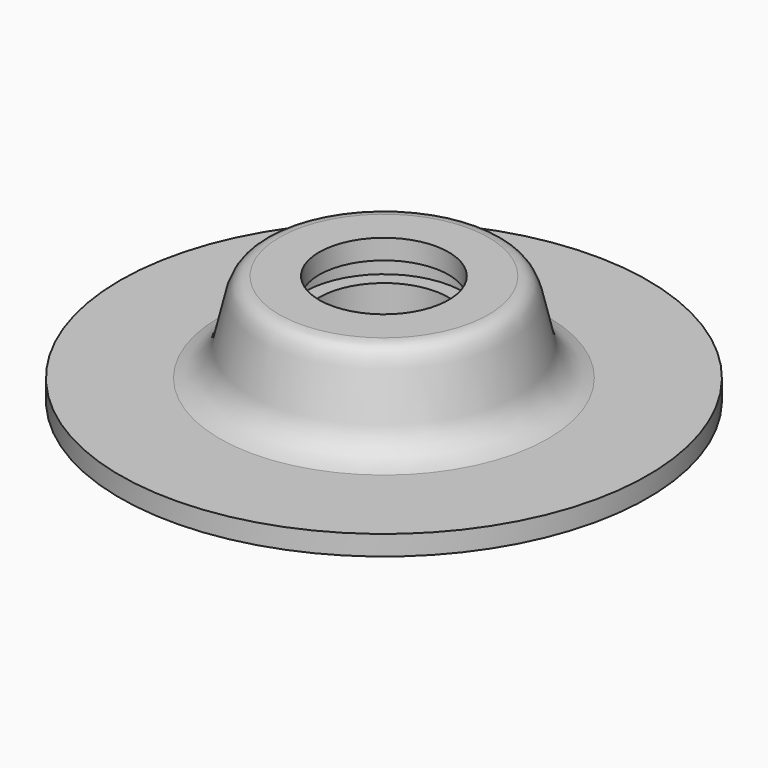
from build123d import *

# Parameters (mm, degrees)
F0_W   = 10
F0_H   = 2
F0_W_2 = 2.5


with BuildPart() as f1:
    # F0 (on Front) → F1 (revolve)
    with BuildSketch(Plane.XZ):
        Polygon((-16.5, 0), (-6.5, 0), (-6.5, 2), (-10.5, 2), (-16.5, 2), align=None)
        with Locations((-21.5, 1)):
            Rectangle(F0_W, F0_H)
        Polygon((-10.5, 2), (-6.5, 2), (-6.5, 7), (-8, 7), (-10.5, 7), align=None)
        with BuildLine():
            add(Edge.make_bspline(
                [(-16.5, 2), (-11.400399, 3.076565), (-14.082662, 11.012357), (-10.5, 11)],
                knots=[0, 0, 0, 0, 10.816654, 10.816654, 10.816654, 10.816654], degree=3))
            Line((-16.5, 2), (-10.5, 2))
            Line((-10.5, 2), (-10.5, 7))
            Line((-10.5, 7), (-10.5, 9))
            Line((-10.5, 9), (-10.5, 11))
        make_face()
        Polygon((-8.5, 11), (-10.5, 11), (-10.5, 9), (-8, 9), (-6.5, 9), (-6.5, 11), align=None)
        with Locations((-9.25, 8)):
            Rectangle(F0_W_2, F0_H)
    revolve(axis=Axis((0, 0, 6.281995), (0, 0, 1)))


solid = f1.part
